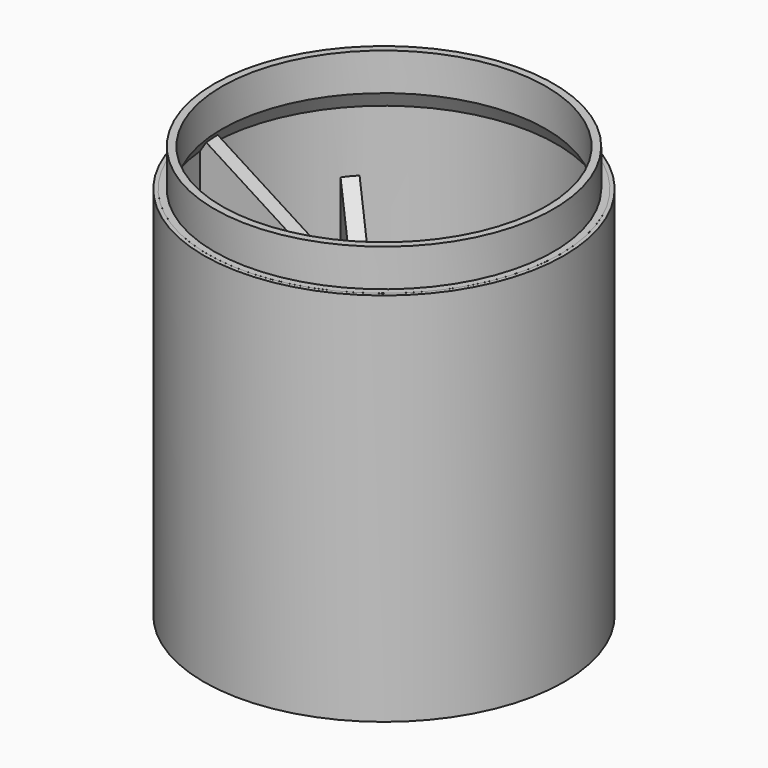
from build123d import *

# Parameters (mm, degrees)
F0_R           = 24
F1_DEPTH       = 50
F2_R           = 23
F3_DEPTH       = 50.001
F10_DEPTH      = 2
F13_DEPTH      = 2
F16_DEPTH      = 1
F16_DEPTH_BACK = 1
F19_DEPTH      = 2
F20_R          = 1


with BuildPart() as f1:
    # F0 (on Top) → F1 (new body)
    with BuildSketch(Plane.XY):
        Circle(F0_R)
    extrude(amount=F1_DEPTH)

    # F2 (on face) → F3 (cut, through all)
    with BuildSketch(Plane.XY.offset(50)):
        Circle(F2_R)
    extrude(amount=-F3_DEPTH, mode=Mode.SUBTRACT)

    # F4 (on Front) → F5 (revolve)
    with BuildSketch(Plane.XZ):
        Polygon((-22.6, 50.0044703981), (-23.5, 50.0044703981), (-23.5, 47.0044703981), (-21.6, 50), (-21.6, 55), (-22.6, 55), align=None)
    revolve(axis=Axis((0, 0, 50), (0, 0, 1)))

    # F9 (on Front) → F10 (join)
    with BuildSketch(Plane.XZ):
        Polygon((-8.5879870174, 40.5), (-23.5, 50), (-23.5, 31), align=None)
        Polygon((23.5, 6), (23.5, 20), (12.5122009602, 13), align=None)
    extrude(amount=F10_DEPTH)

    # F12 (on 3pt) → F13 (join)
    with BuildSketch(Plane(origin=(0, 0, 0), x_dir=(0.7071067812, -0.7071067812, 0), z_dir=(-0.7071067812, -0.7071067812, 0))):
        Polygon((-8.5879870174, 30.5), (-23.5, 40), (-23.5, 21), align=None)
    extrude(amount=F13_DEPTH)

    # F15 (on 3pt) → F16 (join, two sides)
    with BuildSketch(Plane.YZ) as f16_sk:
        Polygon((23.5, 11), (23.5, 30), (8.5879870174, 20.5), align=None)
    extrude(amount=-F16_DEPTH)
    extrude(f16_sk.sketch, amount=F16_DEPTH_BACK)

    # F18 (on 3pt) → F19 (join)
    with BuildSketch(Plane(origin=(0, 0, 0), x_dir=(0.7071067812, 0.7071067812, 0), z_dir=(0.7071067812, -0.7071067812, 0))):
        Polygon((23.5, 6), (23.5, 25), (8.5879870174, 15.5), align=None)
    extrude(amount=F19_DEPTH)

    # F20
    f20_edges = [f1.edges().sort_by_distance(p)[0] for p in [
        (-8.587987, -1, 40.5),
        (-6.779731, 5.365517, 30.5),
        (0, 8.587987, 20.5),
        (6.779731, 5.365517, 15.5),
        (12.512201, -1, 13),
    ]]
    fillet(f20_edges, radius=F20_R)


solid = f1.part
